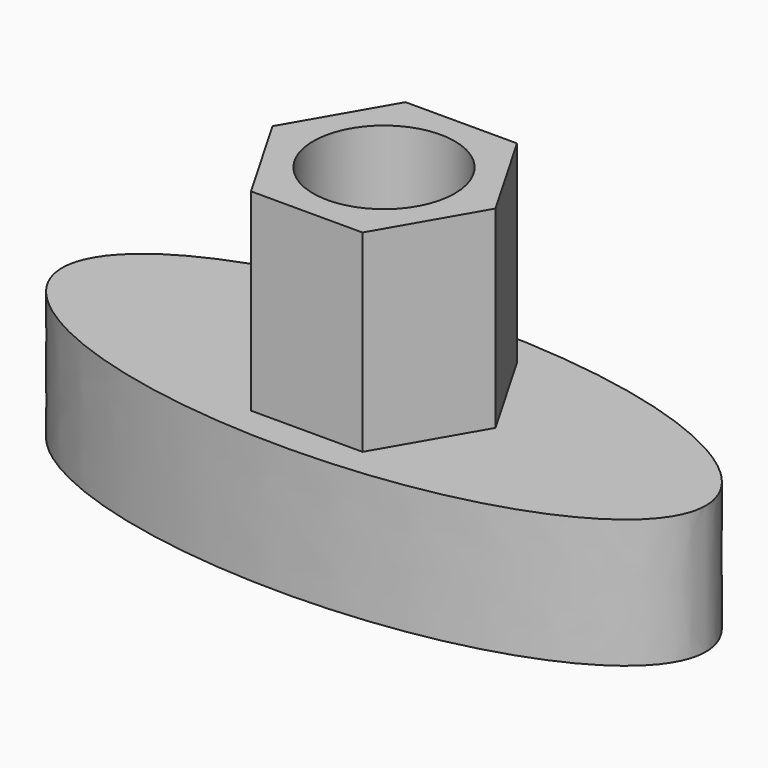
from build123d import *

# Parameters (mm, degrees)
F0_R     = 5.5
F1_DEPTH = 10
F2_R     = 5.5
F3_DEPTH = 15


with BuildPart() as f1:
    # F0 (on Top) → F1 (new body)
    with BuildSketch(Plane.XY):
        with BuildLine():
            add(Edge.make_bspline(
                [(25, 0), (25, 17.320508), (-12.5, 8.660254), (-50, 0), (-12.5, -8.660254), (25, -17.320508), (25, 0)],
                knots=[0, 0, 0, 2.094395, 2.094395, 4.18879, 4.18879, 6.283185, 6.283185, 6.283185], degree=2, weights=[1, 0.5, 1, 0.5, 1, 0.5, 1]))
        make_face()
        Circle(F0_R, mode=Mode.SUBTRACT)
    extrude(amount=F1_DEPTH)

    # F2 (on face) → F3 (join)
    with BuildSketch(Plane.XY.offset(10)):
        Polygon((4.330127, -7.5), (8.660254, 0), (4.330127, 7.5), (-4.330127, 7.5), (-8.660254, 0), (-4.330127, -7.5), align=None)
        Circle(F2_R, mode=Mode.SUBTRACT)
    extrude(amount=F3_DEPTH)


solid = f1.part
